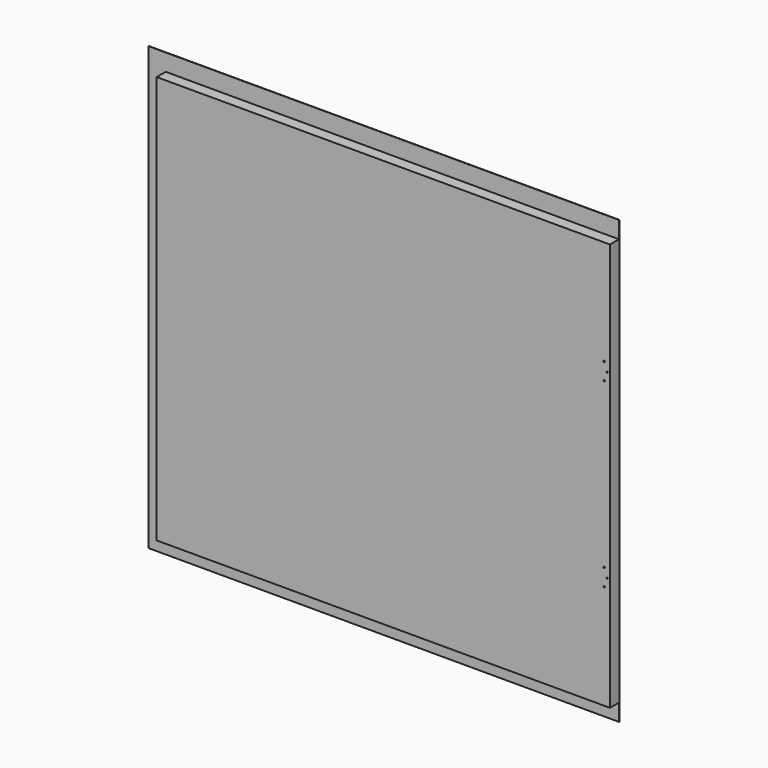
from build123d import *

# Parameters (mm, degrees)
F0_W     = 1054.1
F0_H     = 990.6
F1_DEPTH = 0.762
F2_W     = 1016
F2_H     = 914.4
F3_DEPTH = 25.4
F4_R     = 1.5875
F5_DEPTH = 26.163


with BuildPart() as f1:
    # F0 (on Front) → F1 (new body)
    with BuildSketch(Plane.XZ):
        Rectangle(F0_W, F0_H)
    extrude(amount=F1_DEPTH)

    # F2 (on face) → F3 (join)
    with BuildSketch(Plane.XZ.offset(0.762)):
        with Locations((19.05, 0)):
            Rectangle(F2_W, F2_H)
    extrude(amount=F3_DEPTH)

    # F4 (on face) → F5 (cut, through all)
    with BuildSketch(Plane(origin=(0, 0, 0), x_dir=(-1, 0, 0), z_dir=(0, 1, 0))):
        with Locations((-520.7, 203.2)):
            Circle(F4_R)
        with Locations((-514.35, 222.25)):
            Circle(F4_R)
        with Locations((-514.35, 184.15)):
            Circle(F4_R)
        with Locations((-514.35, -184.15)):
            Circle(F4_R)
        with Locations((-520.7, -203.2)):
            Circle(F4_R)
        with Locations((-514.35, -222.25)):
            Circle(F4_R)
    extrude(amount=-F5_DEPTH, mode=Mode.SUBTRACT)


solid = f1.part
